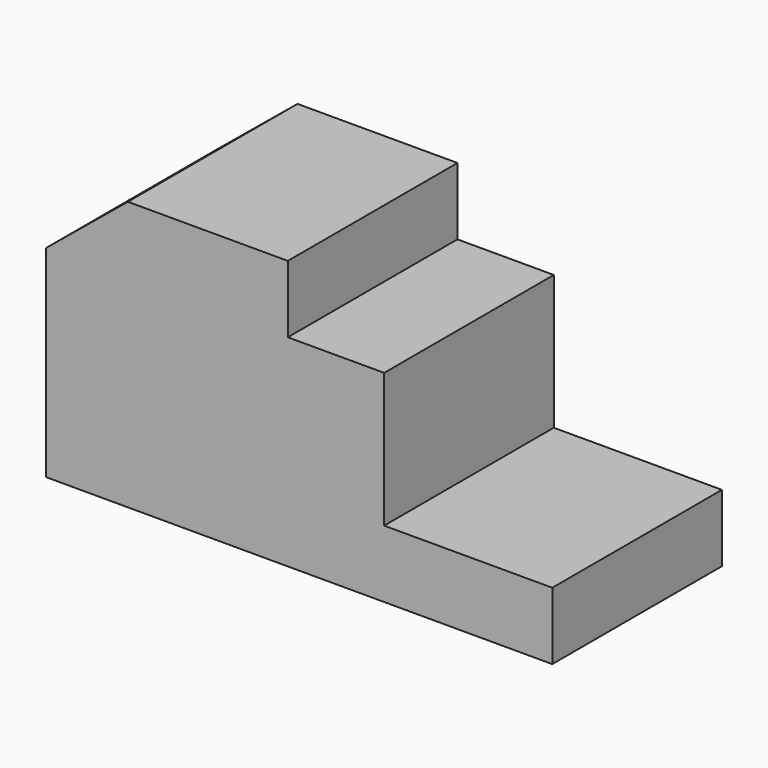
from build123d import *

# Parameters (mm, degrees)
F1_DEPTH = 12.7


with BuildPart() as f1:
    # F0 (on Front) → F1 (new body, symmetric)
    with BuildSketch(Plane.XZ):
        Polygon((-50.836287, 16.110857), (-20.138571, 16.110857), (-20.138571, 24.166286), (-31.677429, 24.166286), (-31.677429, 32.221716), (-50.836287, 32.221716), align=None)
        Polygon((-60.633428, 0), (0, 0), (0, 8.055429), (-20.138571, 8.055429), (-20.138571, 16.110857), (-50.836287, 16.110857), (-50.836287, 32.221716), (-60.633428, 24.166286), align=None)
    extrude(amount=F1_DEPTH, both=True)


solid = f1.part
